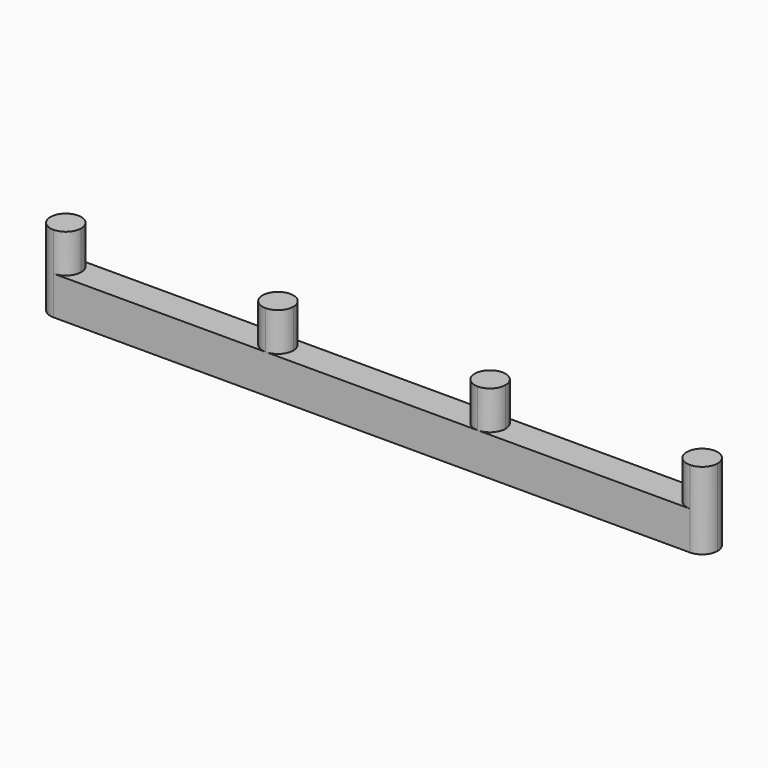
from build123d import *

# Parameters (mm, degrees)
F1_DEPTH = 5
F2_DEPTH = 10


with BuildPart() as f1:
    # F0 (on Top) → F1 (new body)
    with BuildSketch(Plane.XY):
        with BuildLine():
            Line((25.5, 0), (2, 0))
            ThreePointArc((2, 0), (1.414214, -1.414214), (0, -2))
            Line((0, -2), (27.5, -2))
            ThreePointArc((27.5, -2), (26.085786, -1.414214), (25.5, 0))
        make_face()
        with BuildLine():
            ThreePointArc((0, 2), (1.414214, 1.414214), (2, 0))
            Line((2, 0), (25.5, 0))
            ThreePointArc((25.5, 0), (26.085786, 1.414214), (27.5, 2))
            Line((27.5, 2), (0, 2))
        make_face()
        with BuildLine():
            Line((0, 0), (0, 2))
            ThreePointArc((0, 2), (-2, 0), (0, -2))
            Line((0, -2), (0, 0))
        make_face()
        with BuildLine():
            Line((55, 2), (27.5, 2))
            ThreePointArc((27.5, 2), (28.914214, 1.414214), (29.5, 0))
            Line((29.5, 0), (53, 0))
            ThreePointArc((53, 0), (53.585786, 1.414214), (55, 2))
        make_face()
        with BuildLine():
            ThreePointArc((29.5, 0), (28.914214, -1.414214), (27.5, -2))
            Line((27.5, -2), (55, -2))
            ThreePointArc((55, -2), (53.585786, -1.414214), (53, 0))
            Line((53, 0), (29.5, 0))
        make_face()
        with BuildLine():
            Line((82.5, 2), (55, 2))
            ThreePointArc((55, 2), (56.414214, 1.414214), (57, 0))
            Line((57, 0), (80.5, 0))
            ThreePointArc((80.5, 0), (81.085786, 1.414214), (82.5, 2))
        make_face()
        with BuildLine():
            ThreePointArc((57, 0), (56.414214, -1.414214), (55, -2))
            Line((55, -2), (82.5, -2))
            ThreePointArc((82.5, -2), (81.085786, -1.414214), (80.5, 0))
            Line((80.5, 0), (57, 0))
        make_face()
        with BuildLine():
            ThreePointArc((84.5, 0), (83.914214, 1.414214), (82.5, 2))
            Line((82.5, 2), (82.5, 0))
            Line((82.5, 0), (82.5, -2))
            ThreePointArc((82.5, -2), (83.914214, -1.414214), (84.5, 0))
        make_face()
    extrude(amount=F1_DEPTH)

    # F0 (on Top) → F2 (join)
    with BuildSketch(Plane.XY):
        with BuildLine():
            ThreePointArc((84.5, 0), (83.914214, 1.414214), (82.5, 2))
            Line((82.5, 2), (82.5, 0))
            Line((82.5, 0), (82.5, -2))
            ThreePointArc((82.5, -2), (83.914214, -1.414214), (84.5, 0))
        make_face()
        with BuildLine():
            Line((82.5, 0), (82.5, 2))
            ThreePointArc((82.5, 2), (81.085786, 1.414214), (80.5, 0))
            Line((80.5, 0), (82.5, 0))
        make_face()
        with BuildLine():
            ThreePointArc((80.5, 0), (81.085786, -1.414214), (82.5, -2))
            Line((82.5, -2), (82.5, 0))
            Line((82.5, 0), (80.5, 0))
        make_face()
        with BuildLine():
            ThreePointArc((53, 0), (53.585786, -1.414214), (55, -2))
            ThreePointArc((55, -2), (56.414214, -1.414214), (57, 0))
            Line((57, 0), (55, 0))
            Line((55, 0), (53, 0))
        make_face()
        with BuildLine():
            ThreePointArc((57, 0), (56.414214, 1.414214), (55, 2))
            ThreePointArc((55, 2), (53.585786, 1.414214), (53, 0))
            Line((53, 0), (55, 0))
            Line((55, 0), (57, 0))
        make_face()
        with BuildLine():
            Line((27.5, 0), (25.5, 0))
            ThreePointArc((25.5, 0), (26.085786, -1.414214), (27.5, -2))
            ThreePointArc((27.5, -2), (28.914214, -1.414214), (29.5, 0))
            Line((29.5, 0), (27.5, 0))
        make_face()
        with BuildLine():
            ThreePointArc((27.5, 2), (26.085786, 1.414214), (25.5, 0))
            Line((25.5, 0), (27.5, 0))
            Line((27.5, 0), (29.5, 0))
            ThreePointArc((29.5, 0), (28.914214, 1.414214), (27.5, 2))
        make_face()
        with BuildLine():
            ThreePointArc((0, -2), (1.414214, -1.414214), (2, 0))
            Line((2, 0), (0, 0))
            Line((0, 0), (0, -2))
        make_face()
        with BuildLine():
            Line((0, 0), (0, 2))
            ThreePointArc((0, 2), (-2, 0), (0, -2))
            Line((0, -2), (0, 0))
        make_face()
        with BuildLine():
            Line((0, 0), (2, 0))
            ThreePointArc((2, 0), (1.414214, 1.414214), (0, 2))
            Line((0, 2), (0, 0))
        make_face()
    extrude(amount=F2_DEPTH)


solid = f1.part
